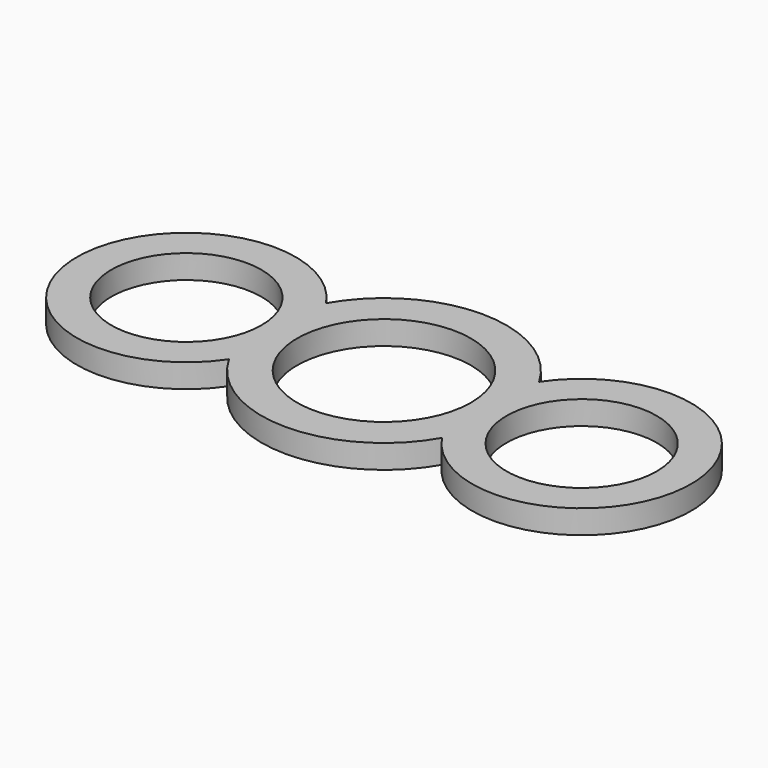
from build123d import *

# Parameters (mm, degrees)
F0_R     = 9.5
F0_R_2   = 11
F1_DEPTH = 3


with BuildPart() as f1:
    # F0 (on Top) → F1 (new body)
    with BuildSketch(Plane.XY):
        with BuildLine():
            ThreePointArc((-13.467005, 7.673967), (-38.852788, 0), (-13.467005, -7.673967))
            ThreePointArc((-13.467005, -7.673967), (0, -15.5), (13.467005, -7.673967))
            ThreePointArc((13.467005, -7.673967), (38.852788, 0), (13.467005, 7.673967))
            ThreePointArc((13.467005, 7.673967), (0, 15.5), (-13.467005, 7.673967))
        make_face()
        with Locations((-25, 0)):
            Circle(F0_R, mode=Mode.SUBTRACT)
        Circle(F0_R_2, mode=Mode.SUBTRACT)
        with Locations((25, 0)):
            Circle(F0_R, mode=Mode.SUBTRACT)
    extrude(amount=F1_DEPTH)


solid = f1.part
